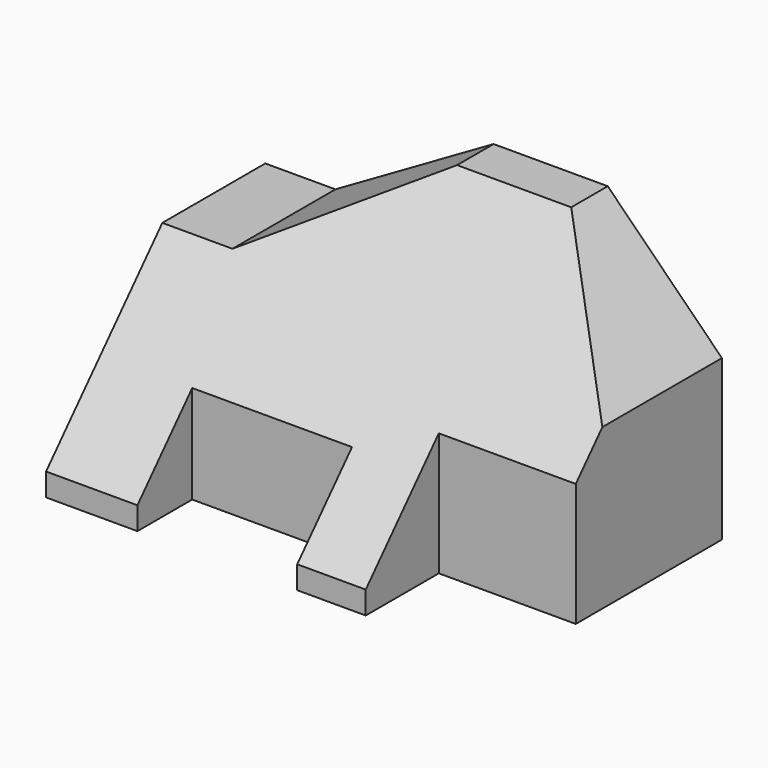
from build123d import *

# Parameters (mm, degrees)
F1_DEPTH = 60
F3_DEPTH = 60.001
F5_DEPTH = 100.001


with BuildPart() as f1:
    # F0 (on Top) → F1 (new body)
    with BuildSketch(Plane.XY):
        Polygon((0, 60), (0, 0), (20, 0), (20, 15), (55, 15), (55, 0), (70, 0), (70, 20), (100, 20), (100, 60), align=None)
    extrude(amount=F1_DEPTH)

    # F2 (on face) → F3 (cut, through all)
    with BuildSketch(Plane.XZ):
        Polygon((15.358984, 40), (50, 60), (0, 60), (0, 40), align=None)
        Polygon((100, 60), (75, 60), (100, 35), align=None)
    extrude(amount=-F3_DEPTH, mode=Mode.SUBTRACT)

    # F4 (on Right) → F5 (cut, through all)
    with BuildSketch(Plane.YZ):
        Polygon((0, 5), (50, 60), (0, 60), align=None)
    extrude(amount=F5_DEPTH, mode=Mode.SUBTRACT)


solid = f1.part
